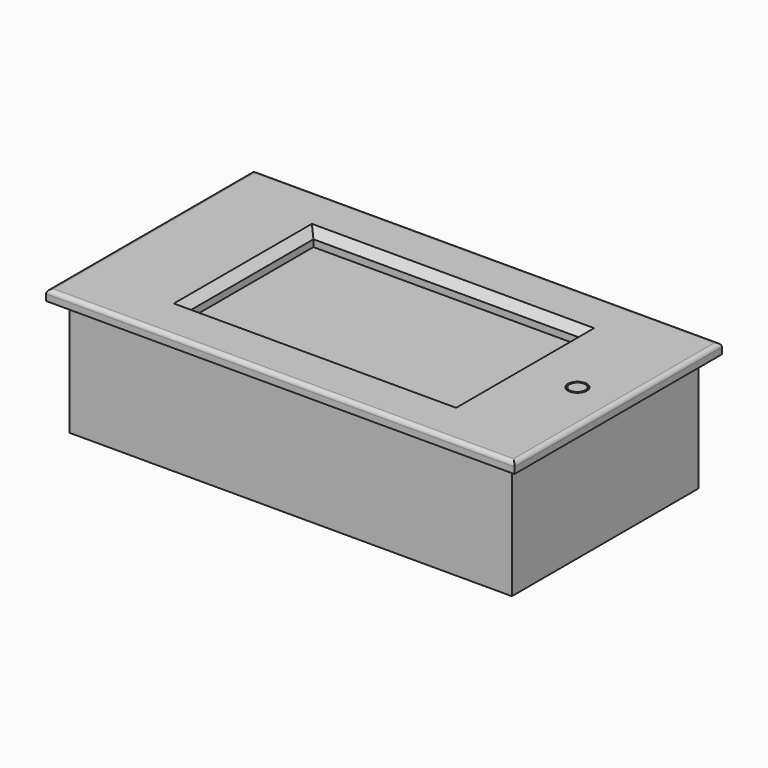
from build123d import *

# Parameters (mm, degrees)
SKETCH048_W     = 84.6
SKETCH048_H     = 44.6
PAD023_DEPTH    = 22.4
SKETCH049_W     = 89.6
SKETCH049_H     = 49.6
PAD024_DEPTH    = 2
FILLET_R        = 0.8
SKETCH050_W     = 51
SKETCH050_H     = 30
POCKET023_DEPTH = 2.82
CHAMFER004_SIZE = 1.5
SKETCH051_R     = 1.81
POCKET024_DEPTH = 3
SKETCH052_W     = 9
SKETCH052_H     = 26
POCKET025_DEPTH = 10
SKETCH007_R     = 1.51
PAD002_DEPTH    = 3


with BuildPart() as part:
    # Sketch048 → Pad023 (new body)
    with BuildSketch(Plane.XY):
        Rectangle(SKETCH048_W, SKETCH048_H)
    extrude(amount=-PAD023_DEPTH)

    # Sketch049 → Pad024 (join)
    with BuildSketch(Plane.XY):
        Rectangle(SKETCH049_W, SKETCH049_H)
    extrude(amount=PAD024_DEPTH)

    # Fillet
    fillet_edges = [part.edges().sort_by_distance(p)[0] for p in [
        (0, -24.8, 2),
        (44.8, 0, 2),
        (0, 24.8, 2),
        (-44.8, 0, 2),
    ]]
    fillet(fillet_edges, radius=FILLET_R)

    # Sketch050 (on Face8 of Fillet) → Pocket023 (cut)
    with BuildSketch(Plane.XY.offset(2)):
        Rectangle(SKETCH050_W, SKETCH050_H)
    extrude(amount=-POCKET023_DEPTH, mode=Mode.SUBTRACT)

    # Chamfer004
    chamfer004_edges = [part.edges().sort_by_distance(p)[0] for p in [
        (-25.5, 0, 2),
        (0, 15, 2),
        (0, -15, 2),
        (25.5, 0, 2),
    ]]
    chamfer(chamfer004_edges, length=CHAMFER004_SIZE)

    # Sketch051 (on Face1 of Chamfer004) → Pocket024 (cut)
    with BuildSketch(Plane.XY.offset(2)):
        with Locations((37, 0)):
            Circle(SKETCH051_R)
    extrude(amount=-POCKET024_DEPTH, mode=Mode.SUBTRACT)

    # Sketch052 (on DatumPlane) → Pocket025 (cut)
    with BuildSketch(Plane.XY.offset(-22.4)):
        with Locations((-37.8, 0)):
            Rectangle(SKETCH052_W, SKETCH052_H)
    extrude(amount=POCKET025_DEPTH, mode=Mode.SUBTRACT)

    # Sketch007 (on DatumPlane) → Pad002 (join)
    with BuildSketch(Plane.XY.offset(-1)):
        with Locations((37, 0)):
            Circle(SKETCH007_R)
    extrude(amount=PAD002_DEPTH)


solid = part.part
